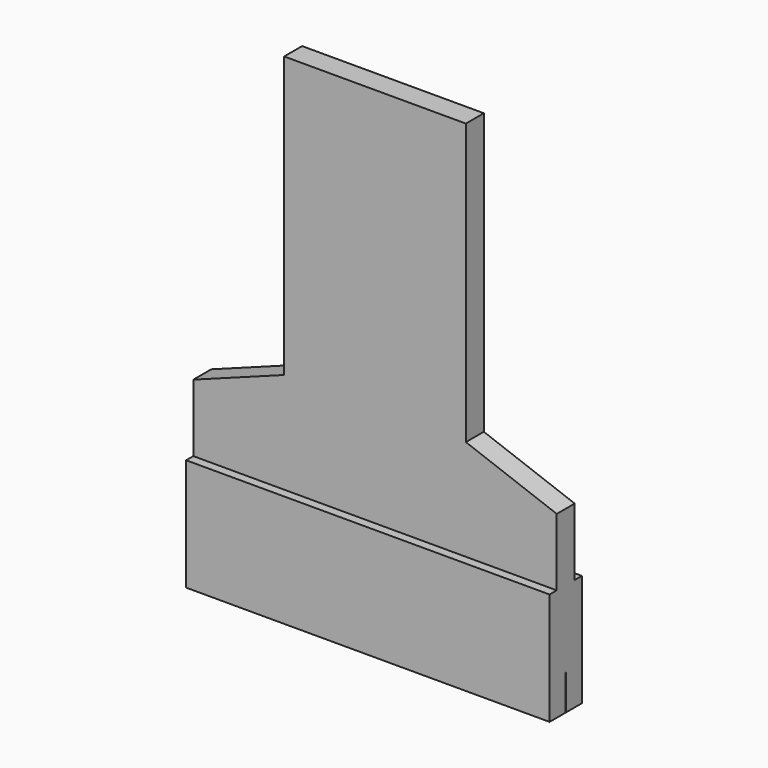
from build123d import *

# Parameters (mm, degrees)
F0_W     = 81
F0_H     = 9
F1_DEPTH = 25
F2_W     = 81
F2_H     = 0.2
F3_DEPTH = 7.85
F4_W     = 40.5
F4_H     = 2.5
F5_DEPTH = 85
F7_DEPTH = 25


with BuildPart() as f1:
    # F0 (on Top) → F1 (new body)
    with BuildSketch(Plane.XY):
        with Locations((40.5, 4.5)):
            Rectangle(F0_W, F0_H)
    extrude(amount=F1_DEPTH)

    # F2 (on face) → F3 (cut)
    with BuildSketch(Plane(origin=(0, 0, 0), x_dir=(1, 0, 0), z_dir=(0, 0, -1))):
        with Locations((40.5, -4.5)):
            Rectangle(F2_W, F2_H)
    extrude(amount=-F3_DEPTH, mode=Mode.SUBTRACT)

    # F4 (on face) → F5 (join)
    with BuildSketch(Plane.XY.offset(25)):
        with Locations((20.25, 5.75)):
            Rectangle(F4_W, F4_H)
        with Locations((20.25, 3.25)):
            Rectangle(F4_W, F4_H)
        with Locations((60.75, 3.25)):
            Rectangle(F4_W, F4_H)
        with Locations((60.75, 5.75)):
            Rectangle(F4_W, F4_H)
    extrude(amount=F5_DEPTH)

    # F6 (on face) → F7 (cut)
    with BuildSketch(Plane.XZ.offset(-2)):
        Polygon((0, 110), (0, 40), (20.25, 47.5), (20.25, 110), align=None)
        Polygon((60.75, 47.5), (81, 40), (81, 110), (60.75, 110), align=None)
    extrude(amount=-F7_DEPTH, mode=Mode.SUBTRACT)


solid = f1.part
